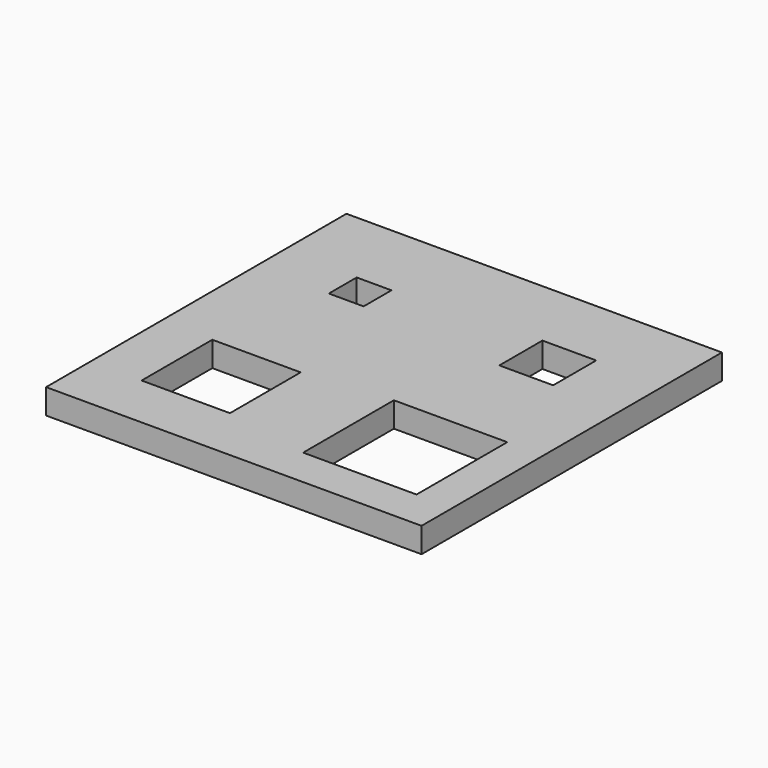
from build123d import *

# Parameters (mm, degrees)
F0_W     = 30
F0_H     = 30
F0_W_2   = 7.06
F0_H_2   = 7.06
F0_W_3   = 9.06
F0_H_3   = 9.06
F0_W_4   = 2.78
F0_H_4   = 2.78
F0_W_5   = 4.3
F0_H_5   = 4.3
F1_DEPTH = 2


with BuildPart() as f1:
    # F0 (on Top) → F1 (new body)
    with BuildSketch(Plane.XY):
        Rectangle(F0_W, F0_H)
        with Locations((-7.372911, -7.050596)):
            Rectangle(F0_W_2, F0_H_2, mode=Mode.SUBTRACT)
        with Locations((7.584257, -7.361125)):
            Rectangle(F0_W_3, F0_H_3, mode=Mode.SUBTRACT)
        with Locations((-7.735196, 7.285514)):
            Rectangle(F0_W_4, F0_H_4, mode=Mode.SUBTRACT)
        with Locations((7.400943, 7.106543)):
            Rectangle(F0_W_5, F0_H_5, mode=Mode.SUBTRACT)
    extrude(amount=F1_DEPTH)


solid = f1.part
